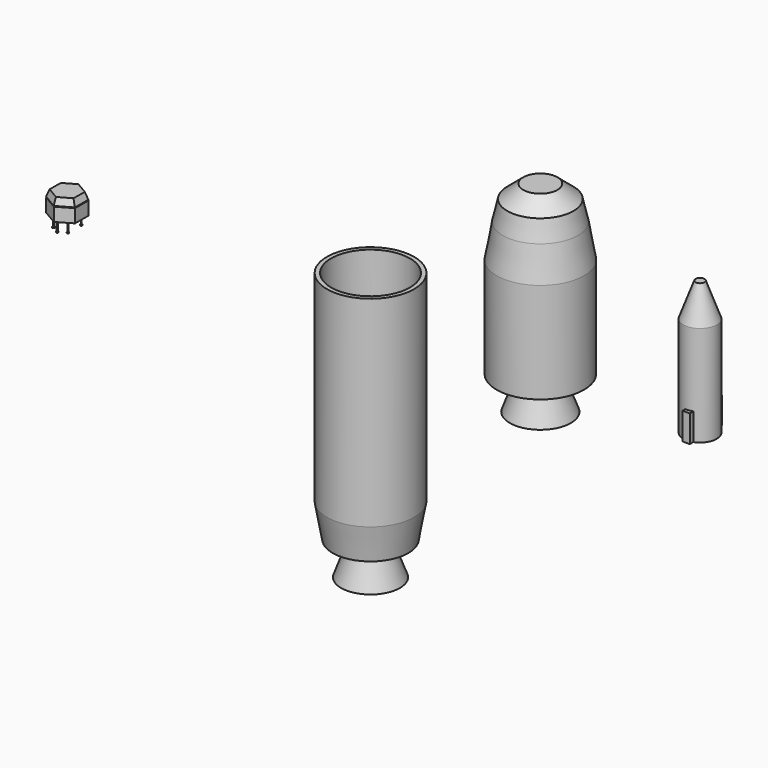
from build123d import *

# Parameters (mm, degrees)
F0_R           = 6.520682956
F1_DEPTH       = 5
F1_DEPTH_BACK  = 25
F1_FACE_R      = 6.520682956
F2_DEPTH       = 5
F2_TAPER       = 10
F3_R           = 2.5642174857
F4_DEPTH       = 5
F4_TAPER       = -20
F5_R           = 3.9472108248
F6_DEPTH       = 5
F6_TAPER       = 20
F7_R           = 5.8907936321
F8_DEPTH       = 10
F9_R           = 6.5154083069
F10_DEPTH      = 15
F11_R          = 2.7434685281
F12_DEPTH      = 5
F12_TAPER      = -20
F13_R          = 4.0931240103
F14_DEPTH      = 5
F14_TAPER      = 20
F10_FACE1_R    = 6.5154083069
F15_DEPTH      = 5
F15_TAPER      = 10
F15_FACE_R     = 5.6337734034
F16_DEPTH      = 3
F16_TAPER      = 13
F16_FACE_R     = 4.94116883
F17_DEPTH      = 2
F17_TAPER      = 50
F18_R          = 2.4955755262
F19_DEPTH      = 15
F19_FACE_R     = 2.4955755262
F20_DEPTH      = 5
F20_TAPER      = 20
F21_W          = 1.089528203
F21_H          = 4.0418575518
F22_DEPTH      = 3
F22_DEPTH_BACK = 3
F24_DEPTH      = 2
F25_R          = 0.1692879178
F25_R_2        = 0.2224386255
F25_R_3        = 0.234360296
F25_R_4        = 0.2369895681
F25_R_5        = 0.225785449
F25_R_6        = 0.1765959337
F26_DEPTH      = 0.1
F28_DEPTH      = 1
F28_TAPER      = 20
F29_R          = 0.0633023373
F29_R_2        = 0.0561190387
F29_R_3        = 0.0530285767
F29_R_4        = 0.0388095199
F29_R_5        = 0.0503144373
F29_R_6        = 0.0580538922
F30_DEPTH      = 1.5
F31_R          = 0.1727487278
F32_DEPTH      = 0.1
F33_R          = 0.1539242837
F34_DEPTH      = 0.1
F35_R          = 0.164719665
F36_DEPTH      = 0.1
F37_R          = 0.1449825648
F38_DEPTH      = 0.1
F39_R          = 0.1653727372
F40_DEPTH      = 0.1
F41_R          = 0.175474747
F42_DEPTH      = 0.1


with BuildPart() as f1:
    # F0 (on Top) → F1 (new body, two sides)
    with BuildSketch(Plane.XY) as f1_sk:
        Circle(F0_R)
    extrude(amount=F1_DEPTH)
    extrude(f1_sk.sketch, amount=-F1_DEPTH_BACK)

    # F1_face (on face) → F2 (join)
    with BuildSketch(Plane(origin=(0, 0, -25), x_dir=(1, 0, 0), z_dir=(0, 0, -1))):
        Circle(F1_FACE_R)
    extrude(amount=F2_DEPTH, taper=F2_TAPER)

    # F3 (on face) → F4 (join)
    with BuildSketch(Plane(origin=(0, 0, -30), x_dir=(1, 0, 0), z_dir=(0, 0, -1))):
        Circle(F3_R)
    extrude(amount=F4_DEPTH, taper=F4_TAPER)

    # F5 (on face) → F6 (cut)
    with BuildSketch(Plane(origin=(0, 0, -35), x_dir=(1, 0, 0), z_dir=(0, 0, -1))):
        Circle(F5_R)
    extrude(amount=-F6_DEPTH, taper=F6_TAPER, mode=Mode.SUBTRACT)

    # F7 (on face) → F8 (cut)
    with BuildSketch(Plane.XY.offset(5)):
        Circle(F7_R)
    extrude(amount=-F8_DEPTH, mode=Mode.SUBTRACT)


with BuildPart() as f10:
    # F9 (on Top) → F10 (new body)
    with BuildSketch(Plane.XY):
        with Locations((25.3644138575, 0)):
            Circle(F9_R)
    extrude(amount=F10_DEPTH)

    # F11 (on face) → F12 (join)
    with BuildSketch(Plane(origin=(0, 0, 0), x_dir=(1, 0, 0), z_dir=(0, 0, -1))):
        with Locations((25.3644138575, 0)):
            Circle(F11_R)
    extrude(amount=F12_DEPTH, taper=F12_TAPER)

    # F13 (on face) → F14 (cut)
    with BuildSketch(Plane(origin=(0, 0, -5), x_dir=(1, 0, 0), z_dir=(0, 0, -1))):
        with Locations((25.3644138575, 0)):
            Circle(F13_R)
    extrude(amount=-F14_DEPTH, taper=F14_TAPER, mode=Mode.SUBTRACT)

    # F10_face1 (on face) → F15 (join)
    with BuildSketch(Plane(origin=(25.3644138575, 0, 15), x_dir=(1, 0, 0), z_dir=(0, 0, 1))):
        Circle(F10_FACE1_R)
    extrude(amount=F15_DEPTH, taper=F15_TAPER)

    # F15_face (on face) → F16 (join)
    with BuildSketch(Plane(origin=(25.3644138575, 0, 20), x_dir=(1, 0, 0), z_dir=(0, 0, 1))):
        Circle(F15_FACE_R)
    extrude(amount=F16_DEPTH, taper=F16_TAPER)

    # F16_face (on face) → F17 (join)
    with BuildSketch(Plane(origin=(25.3644138575, 0, 23), x_dir=(1, 0, 0), z_dir=(0, 0, 1))):
        Circle(F16_FACE_R)
    extrude(amount=F17_DEPTH, taper=F17_TAPER)


with BuildPart() as f19:
    # F18 (on Top) → F19 (new body)
    with BuildSketch(Plane.XY):
        with Locations((49.210626632, 0)):
            Circle(F18_R)
    extrude(amount=F19_DEPTH)

    # F19_face (on face) → F20 (join)
    with BuildSketch(Plane(origin=(49.210626632, 0, 15), x_dir=(1, 0, 0), z_dir=(0, 0, 1))):
        Circle(F19_FACE_R)
    extrude(amount=F20_DEPTH, taper=F20_TAPER)

    # F21 (on Front) → F22 (join, two sides)
    with BuildSketch(Plane.XZ) as f22_sk:
        with Locations((49.5360642672, 2.0209287759)):
            Rectangle(F21_W, F21_H)
    extrude(amount=F22_DEPTH)
    extrude(f22_sk.sketch, amount=-F22_DEPTH_BACK)


with BuildPart() as f24:
    # F23 (on Top) → F24 (new body)
    with BuildSketch(Plane.XY):
        Polygon((-43.1185588241, -1.249933733), (-43.1185588241, 1.249933733), (-45.2835075557, 2.499867466), (-47.4484562874, 1.249933733), (-47.4484562874, -1.249933733), (-45.2835075557, -2.499867466), align=None)
    extrude(amount=-F24_DEPTH)

    # F25 (on face) → F26 (join)
    with BuildSketch(Plane.XY):
        with Locations((-45.2835075557, -1.8749005995)):
            Circle(F25_R)
        with Locations((-44.2010331899, -1.249933733)):
            Circle(F25_R_2)
        with Locations((-44.2010331899, 1.249933733)):
            Circle(F25_R_3)
        with Locations((-46.3659819216, 1.249933733)):
            Circle(F25_R_4)
        with Locations((-46.3659819216, -1.249933733)):
            Circle(F25_R_5)
        with Locations((-45.2835075557, 1.8749005995)):
            Circle(F25_R_6)
    extrude(amount=F26_DEPTH)

    # F27 (on face) → F28 (join)
    with BuildSketch(Plane.XY.offset(0.1)):
        Polygon((-43.1213415258, 1.2272408262), (-45.2714749582, 2.4968995217), (-47.4460983588, 1.2696586956), (-47.4705883272, -1.2272408262), (-45.3204548948, -2.4968995217), (-43.1458314941, -1.2696586956), align=None)
    extrude(amount=F28_DEPTH, taper=F28_TAPER)

    # F29 (on face) → F30 (join)
    with BuildSketch(Plane(origin=(0, 0, -2), x_dir=(1, 0, 0), z_dir=(0, 0, -1))):
        with Locations((-45.2835075557, 1.8749005995)):
            Circle(F29_R)
        with Locations((-44.2010331899, 1.249933733)):
            Circle(F29_R_2)
        with Locations((-44.2010331899, -1.249933733)):
            Circle(F29_R_3)
        with Locations((-45.2835075557, -1.8749005995)):
            Circle(F29_R_4)
        with Locations((-46.3659819216, -1.249933733)):
            Circle(F29_R_5)
        with Locations((-46.3659819216, 1.249933733)):
            Circle(F29_R_6)
    extrude(amount=F30_DEPTH)

    # F31 (on face) → F32 (join)
    with BuildSketch(Plane(origin=(0, 0, -3.5), x_dir=(1, 0, 0), z_dir=(0, 0, -1))):
        with Locations((-46.3659819216, -1.249933733)):
            Circle(F31_R)
    extrude(amount=F32_DEPTH)

    # F33 (on face) → F34 (join)
    with BuildSketch(Plane(origin=(0, 0, -3.5), x_dir=(1, 0, 0), z_dir=(0, 0, -1))):
        with Locations((-45.2835075557, -1.8749005995)):
            Circle(F33_R)
    extrude(amount=F34_DEPTH)

    # F35 (on face) → F36 (join)
    with BuildSketch(Plane(origin=(0, 0, -3.5), x_dir=(1, 0, 0), z_dir=(0, 0, -1))):
        with Locations((-44.2010331899, -1.249933733)):
            Circle(F35_R)
    extrude(amount=F36_DEPTH)

    # F37 (on face) → F38 (join)
    with BuildSketch(Plane(origin=(0, 0, -3.5), x_dir=(1, 0, 0), z_dir=(0, 0, -1))):
        with Locations((-44.2010331899, 1.249933733)):
            Circle(F37_R)
    extrude(amount=F38_DEPTH)

    # F39 (on face) → F40 (join)
    with BuildSketch(Plane(origin=(0, 0, -3.5), x_dir=(1, 0, 0), z_dir=(0, 0, -1))):
        with Locations((-45.2835075557, 1.8749005995)):
            Circle(F39_R)
    extrude(amount=F40_DEPTH)

    # F41 (on face) → F42 (join)
    with BuildSketch(Plane(origin=(0, 0, -3.5), x_dir=(1, 0, 0), z_dir=(0, 0, -1))):
        with Locations((-46.3659819216, 1.249933733)):
            Circle(F41_R)
    extrude(amount=F42_DEPTH)


solid = Compound([f1.part, f10.part, f19.part, f24.part])
